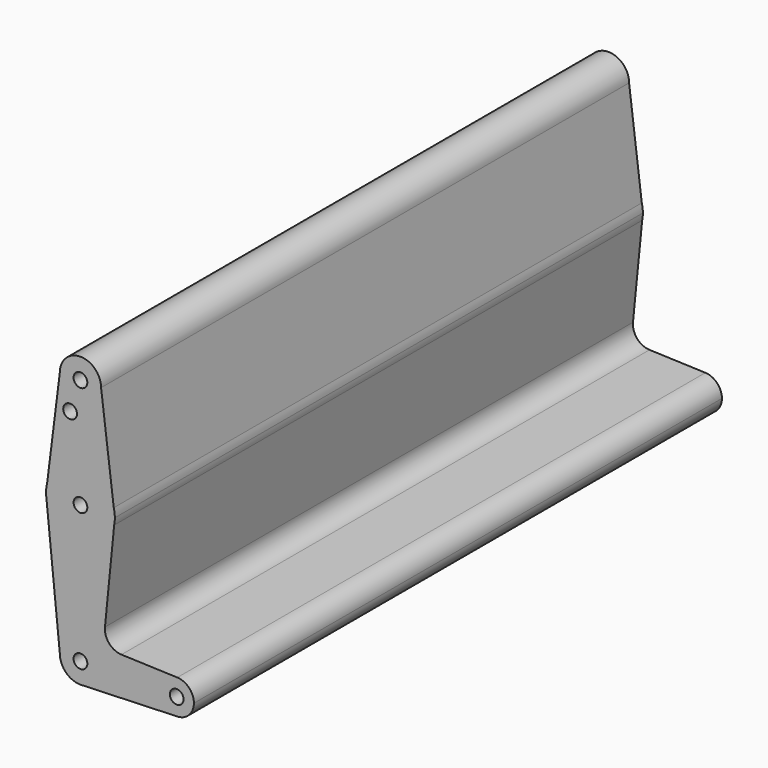
from build123d import *

# Parameters (mm, degrees)
F0_R     = 3.175
F1_DEPTH = 304.8


with BuildPart() as f1:
    # F0 (on Front) → F1 (new body)
    with BuildSketch(Plane.XZ):
        with BuildLine():
            Line((0.677344, 9.500886), (0, 9.525))
            ThreePointArc((0, 9.525), (-6.735192, 6.735192), (-9.525, 0))
            ThreePointArc((-9.525, 0), (-6.735192, -6.735192), (0, -9.525))
            Line((0, -9.525), (0.677344, -9.500886))
            ThreePointArc((0.677344, -9.500886), (6.970557, -6.491299), (9.525, 0))
            ThreePointArc((9.525, 0), (6.970557, 6.491299), (0.677344, 9.500886))
        make_face()
        Circle(F0_R, mode=Mode.SUBTRACT)
        with BuildLine():
            ThreePointArc((-9.525, 0), (-6.735192, 6.735192), (0, 9.525))
            ThreePointArc((0, 9.525), (0.338886, 9.51897), (0.677344, 9.500886))
            Line((0.677344, 9.500886), (18.945412, 8.850521))
            ThreePointArc((18.945412, 8.850521), (13.241501, 11.5646), (11.316949, 17.580988))
            Line((11.316949, 17.580988), (15.565216, 60.379155))
            ThreePointArc((15.565216, 60.379155), (-0.769182, 47.643645), (-15.794203, 61.90038))
            Line((-15.794203, 61.90038), (-9.525, 0))
        make_face()
        with BuildLine():
            Line((18.945412, 8.850521), (0.677344, 9.500886))
            ThreePointArc((0.677344, 9.500886), (6.970557, 6.491299), (9.525, 0))
            ThreePointArc((9.525, 0), (6.970557, -6.491299), (0.677344, -9.500886))
            Line((0.677344, -9.500886), (44.732405, -7.932475))
            ThreePointArc((44.732405, -7.932475), (36.5125, 0), (44.732405, 7.932475))
            Line((44.732405, 7.932475), (18.945412, 8.850521))
        make_face()
        with BuildLine():
            Line((0.677344, -9.500886), (0, -9.525))
            ThreePointArc((0, -9.525), (0.338886, -9.51897), (0.677344, -9.500886))
        make_face()
        with BuildLine():
            ThreePointArc((-15.875, 63.5), (-15.854788, 62.699171), (-15.794203, 61.90038))
            ThreePointArc((-15.794203, 61.90038), (-0.769182, 47.643645), (15.565216, 60.379155))
            Line((15.565216, 60.379155), (15.875, 63.5))
            Line((15.875, 63.5), (15.386538, 67.407692))
            ThreePointArc((15.386538, 67.407692), (0, 79.375), (-15.386538, 67.407692))
            Line((-15.386538, 67.407692), (-15.875, 63.5))
        make_face()
        with Locations((0, 63.5)):
            Circle(F0_R, mode=Mode.SUBTRACT)
        with BuildLine():
            ThreePointArc((-15.386538, 67.407692), (-15.752411, 65.469051), (-15.875, 63.5))
            Line((-15.875, 63.5), (-15.386538, 67.407692))
        make_face()
        with BuildLine():
            Line((15.875, 63.5), (15.565216, 60.379155))
            ThreePointArc((15.565216, 60.379155), (15.797364, 61.931909), (15.875, 63.5))
        make_face()
        with BuildLine():
            ThreePointArc((52.3875, 0), (50.161633, 5.51191), (44.732405, 7.932475))
            ThreePointArc((44.732405, 7.932475), (36.5125, 0), (44.732405, -7.932475))
            ThreePointArc((44.732405, -7.932475), (50.161633, -5.51191), (52.3875, 0))
        make_face()
        with Locations((44.45, 0)):
            Circle(F0_R, mode=Mode.SUBTRACT)
        with BuildLine():
            Line((-9.525, 114.3), (-15.386538, 67.407692))
            ThreePointArc((-15.386538, 67.407692), (0, 79.375), (15.386538, 67.407692))
            Line((15.386538, 67.407692), (9.525, 114.3))
            ThreePointArc((9.525, 114.3), (0, 104.775), (-9.525, 114.3))
        make_face()
        with Locations((-4.778478, 100.0252)):
            Circle(F0_R, mode=Mode.SUBTRACT)
        with BuildLine():
            Line((15.386538, 67.407692), (15.875, 63.5))
            ThreePointArc((15.875, 63.5), (15.752411, 65.469051), (15.386538, 67.407692))
        make_face()
        with BuildLine():
            ThreePointArc((9.525, 114.3), (0, 123.825), (-9.525, 114.3))
            ThreePointArc((-9.525, 114.3), (0, 104.775), (9.525, 114.3))
        make_face()
        with Locations((0, 114.3)):
            Circle(F0_R, mode=Mode.SUBTRACT)
    extrude(amount=F1_DEPTH)


solid = f1.part
